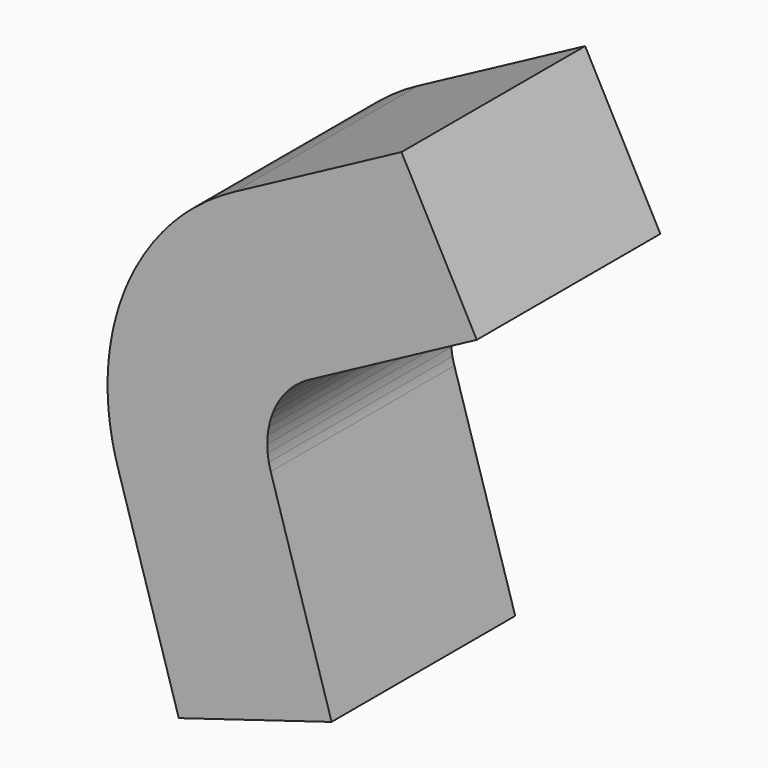
from build123d import *

# Parameters (mm, degrees)
F1_DEPTH = 292.1
F3_DEPTH = 241.3
F4_W     = 203.2
F4_H     = 292.1
F5_DEPTH = 266.7


with BuildPart() as f1:
    # F0 (on Front) → F1 (new body)
    with BuildSketch(Plane.XZ):
        with BuildLine():
            Line((-169.3378070244, 253.4319378298), (-56.4459356748, 84.4773126099))
            ThreePointArc((-56.4459356748, 84.4773126099), (-52.23283881, 87.145226776), (-47.8939084615, 89.6032004578))
            Line((-47.8939084615, 89.6032004578), (-143.6817253846, 268.8096013734))
            ThreePointArc((-143.6817253846, 268.8096013734), (-156.6985164301, 261.4356803281), (-169.3378070244, 253.4319378298))
        make_face()
        with BuildLine():
            Line((-304.8, 0), (-101.6, 0))
            ThreePointArc((-101.6, 0), (-101.4776183504, 4.9852757117), (-101.1107682299, 9.9585414575))
            Line((-101.1107682299, 9.9585414575), (-303.3323046897, 29.8756243725))
            ThreePointArc((-303.3323046897, 29.8756243725), (-304.4328550513, 14.955827135), (-304.8, 0))
        make_face()
        with BuildLine():
            ThreePointArc((-101.1107682299, 9.9585414575), (-100.5003334124, 14.9078162047), (-99.647784489, 19.8211767168))
            Line((-99.647784489, 19.8211767168), (-298.9433534669, 59.4635301505))
            ThreePointArc((-298.9433534669, 59.4635301505), (-301.5010002373, 44.723448614), (-303.3323046897, 29.8756243725))
            Line((-303.3323046897, 29.8756243725), (-101.1107682299, 9.9585414575))
        make_face()
        with BuildLine():
            Line((-193.3630730131, 235.613586185), (-64.454357671, 78.5378620617))
            ThreePointArc((-64.454357671, 78.5378620617), (-60.5230493364, 81.6058851984), (-56.4459356748, 84.4773126099))
            Line((-56.4459356748, 84.4773126099), (-169.3378070244, 253.4319378298))
            ThreePointArc((-169.3378070244, 253.4319378298), (-181.5691480093, 244.8176555953), (-193.3630730131, 235.613586185))
        make_face()
        with BuildLine():
            Line((-303.3323046897, -29.8756243724), (-101.1107682299, -9.9585414575))
            ThreePointArc((-101.1107682299, -9.9585414575), (-101.4776183504, -4.9852757117), (-101.6, 0))
            Line((-101.6, 0), (-304.8, 0))
            ThreePointArc((-304.8, 0), (-304.4328550513, -14.955827135), (-303.3323046897, -29.8756243724))
        make_face()
        with BuildLine():
            Line((-215.5261469057, 215.5261469057), (-71.8420489686, 71.8420489686))
            ThreePointArc((-71.8420489686, 71.8420489686), (-68.2303898125, 75.2806343361), (-64.454357671, 78.5378620617))
            Line((-64.454357671, 78.5378620617), (-193.3630730131, 235.613586185))
            ThreePointArc((-193.3630730131, 235.613586185), (-204.6911694374, 225.8419030082), (-215.5261469057, 215.5261469057))
        make_face()
        with BuildLine():
            ThreePointArc((-99.647784489, -19.8211767168), (-100.5003334124, -14.9078162047), (-101.1107682299, -9.9585414575))
            Line((-101.1107682299, -9.9585414575), (-303.3323046897, -29.8756243724))
            ThreePointArc((-303.3323046897, -29.8756243724), (-301.5010002373, -44.723448614), (-298.9433534669, -59.4635301505))
            Line((-298.9433534669, -59.4635301505), (-99.647784489, -19.8211767168))
        make_face()
        with BuildLine():
            Line((-235.613586185, 193.3630730131), (-78.5378620617, 64.454357671))
            ThreePointArc((-78.5378620617, 64.454357671), (-75.2806343361, 68.2303898125), (-71.8420489686, 71.8420489686))
            Line((-71.8420489686, 71.8420489686), (-215.5261469057, 215.5261469057))
            ThreePointArc((-215.5261469057, 215.5261469057), (-225.8419030082, 204.6911694374), (-235.613586185, 193.3630730131))
        make_face()
        with BuildLine():
            Line((-291.6754143312, -88.4787696272), (-97.2251381104, -29.4929232091))
            ThreePointArc((-97.2251381104, -29.4929232091), (-98.5551753246, -24.6867862782), (-99.647784489, -19.8211767168))
            Line((-99.647784489, -19.8211767168), (-298.9433534669, -59.4635301505))
            ThreePointArc((-298.9433534669, -59.4635301505), (-295.6655259737, -74.0603588345), (-291.6754143312, -88.4787696272))
        make_face()
        with BuildLine():
            Line((-268.8096013734, 143.6817253846), (-89.6032004578, 47.8939084615))
            ThreePointArc((-89.6032004578, 47.8939084615), (-87.145226776, 52.23283881), (-84.4773126099, 56.4459356748))
            Line((-84.4773126099, 56.4459356748), (-253.4319378298, 169.3378070244))
            ThreePointArc((-253.4319378298, 169.3378070244), (-261.4356803281, 156.6985164301), (-268.8096013734, 143.6817253846))
        make_face()
        with BuildLine():
            Line((-281.5984815094, 116.6419101849), (-93.8661605031, 38.8806367283))
            ThreePointArc((-93.8661605031, 38.8806367283), (-91.8453121813, 43.4395974925), (-89.6032004578, 47.8939084615))
            Line((-89.6032004578, 47.8939084615), (-268.8096013734, 143.6817253846))
            ThreePointArc((-268.8096013734, 143.6817253846), (-275.535936544, 130.3187924776), (-281.5984815094, 116.6419101849))
        make_face()
        with BuildLine():
            ThreePointArc((-97.2251381104, 29.4929232091), (-95.6608770226, 34.2280091047), (-93.8661605031, 38.8806367283))
            Line((-93.8661605031, 38.8806367283), (-281.5984815094, 116.6419101849))
            ThreePointArc((-281.5984815094, 116.6419101849), (-286.9826310678, 102.6840273139), (-291.6754143312, 88.4787696272))
            Line((-291.6754143312, 88.4787696272), (-97.2251381104, 29.4929232091))
        make_face()
        with BuildLine():
            Line((-253.4319378298, 169.3378070244), (-84.4773126099, 56.4459356748))
            ThreePointArc((-84.4773126099, 56.4459356748), (-81.6058851984, 60.5230493364), (-78.5378620617, 64.454357671))
            Line((-78.5378620617, 64.454357671), (-235.613586185, 193.3630730131))
            ThreePointArc((-235.613586185, 193.3630730131), (-244.8176555953, 181.5691480093), (-253.4319378298, 169.3378070244))
        make_face()
        with BuildLine():
            Line((-298.9433534669, 59.4635301505), (-99.647784489, 19.8211767168))
            ThreePointArc((-99.647784489, 19.8211767168), (-98.5551753246, 24.6867862782), (-97.2251381104, 29.4929232091))
            Line((-97.2251381104, 29.4929232091), (-291.6754143312, 88.4787696272))
            ThreePointArc((-291.6754143312, 88.4787696272), (-295.6655259737, 74.0603588345), (-298.9433534669, 59.4635301505))
        make_face()
    extrude(amount=F1_DEPTH)

    # F3 (add): a face of the model
    f3_faces = [f1.faces().sort_by_distance(p)[0] for p in [
        (-95.787816923, -146.05, 179.2064009156),
    ]]
    extrude(f3_faces, amount=F3_DEPTH)

    # F4 (on face) → F5 (join)
    with BuildSketch(Plane(origin=(0, 0, 0), x_dir=(0.9569403357, 0, 0.2902846773), z_dir=(0.2902846773, 0, -0.9569403357))):
        with Locations((-203.2, 146.05)):
            Rectangle(F4_W, F4_H)
    extrude(amount=F5_DEPTH)


solid = f1.part
